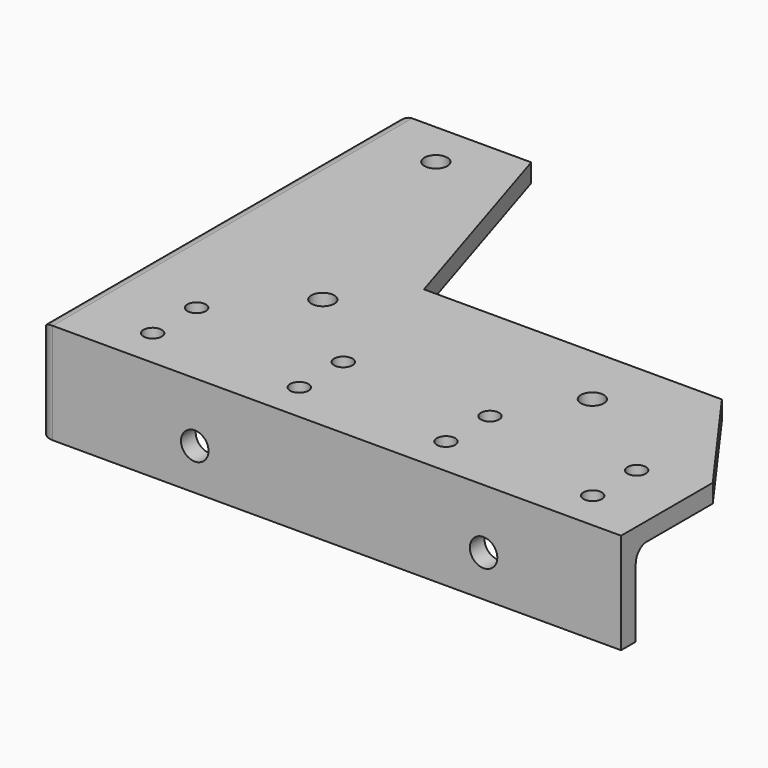
from build123d import *

# Parameters (mm, degrees)
F0_W     = 123
F0_H     = 21
F1_DEPTH = 4
F0_H_2   = 4
F2_DEPTH = 22
F3_D     = 5
F4_D     = 4
F6_D     = 6
F7_R     = 3


with BuildPart() as f1:
    # F0 (on Top) → F1 (new body)
    with BuildSketch(Plane.XY):
        Rectangle(F0_W, F0_H)
        Polygon((-61.5, 10.5), (61.5, 10.5), (43.5, 35.5), (-21.5, 35.5), (-36.5, 83.5), (-61.5, 83.5), align=None)
    extrude(amount=-F1_DEPTH)

    # F0 (on Top) → F2 (join)
    with BuildSketch(Plane.XY):
        Polygon((-61.5, -14.5), (-61.5, -10.5), (-61.5, 10.5), (-61.5, 83.5), (-65.5, 83.5), (-65.5, -14.5), align=None)
        with Locations((0, -12.5)):
            Rectangle(F0_W, F0_H_2)
    extrude(amount=-F2_DEPTH)

    # F3 (through all)
    with Locations(Plane.XY):
        with Locations((-49.3, 73.5), (-32.6, 21.8), (26.2, 21.8)):
            Hole(F3_D / 2)

    # F4 (through all)
    with Locations(Plane.XY):
        with Locations((-47.5, 6), (-47.5, -6), (-15.5, -6), (-15.5, 6), (16.5, -6), (16.5, 6), (48.5, 6), (48.5, -6)):
            Hole(F4_D / 2)

    # F6 (through all)
    with Locations(Plane(origin=(0, -10.5, 0), x_dir=(-1, 0, 0), z_dir=(0, 1, 0))):
        with Locations((-31.5, -13), (31.5, -13)):
            Hole(F6_D / 2)

    # F7
    f7_edges = [f1.edges().sort_by_distance(p)[0] for p in [
        (0, -10.5, -4),
        (-61.5, 36.5, -4),
        (-61.5, -10.5, -13),
        (-65.5, -14.5, -11),
        (-65.5, 34.5, 0),
        (-65.5, 83.5, -11),
    ]]
    fillet(f7_edges, radius=F7_R)


solid = f1.part
